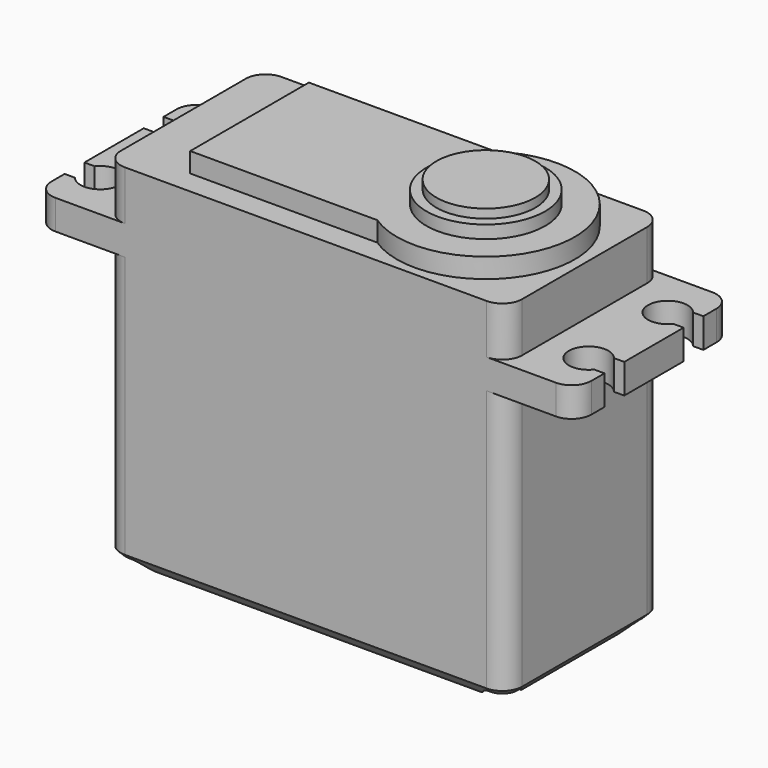
from build123d import *

# Parameters (mm, degrees)
SKETCH007_R      = 6
EXTRUDE007_DEPTH = 1.3
SKETCH008_R      = 5
EXTRUDE008_DEPTH = 0.9
SKETCH004_W      = 5
SKETCH004_H      = 2.5
EXTRUDE004_DEPTH = 3
SKETCH003_R      = 2
EXTRUDE003_DEPTH = 3
SKETCH002_W      = 54.6
SKETCH002_H      = 3
EXTRUDE002_DEPTH = 19.8
SKETCH001_R      = 1.5
EXTRUDE001_DEPTH = 2
SKETCH_W         = 40.6
SKETCH_H         = 19.8
EXTRUDE_DEPTH    = 36
FILLET_R         = 2
CHAMFER_SIZE     = 1.5
FILLET001_R      = 0.5
FILLET002_R      = 2
SKETCH005_R      = 9
EXTRUDE005_DEPTH = 2
SKETCH006_W      = 23.9
SKETCH006_H      = 15
EXTRUDE006_DEPTH = 2


with BuildPart() as extrude007:
    # Sketch007 (on Face81 of Fusion002) → Extrude007 (new body)
    with BuildSketch(Plane.XY.offset(38)):
        Circle(SKETCH007_R)
    extrude(amount=EXTRUDE007_DEPTH)


with BuildPart() as extrude008:
    # Sketch008 (on Face3 of Extrude007) → Extrude008 (new body)
    with BuildSketch(Plane.XY.offset(39.3)):
        Circle(SKETCH008_R)
    extrude(amount=EXTRUDE008_DEPTH)


with BuildPart() as extrude004:
    # Sketch004 (on Face13 of Cut001) → Extrude004 (new body)
    with BuildSketch(Plane.XY.offset(31)):
        with Locations((-37.5, 5)):
            Rectangle(SKETCH004_W, SKETCH004_H)
        with Locations((16.9, 5)):
            Rectangle(SKETCH004_W, SKETCH004_H)
        with Locations((16.9, -5)):
            Rectangle(SKETCH004_W, SKETCH004_H)
        with Locations((-37.5, -5)):
            Rectangle(SKETCH004_W, SKETCH004_H)
    extrude(amount=-EXTRUDE004_DEPTH)


with BuildPart() as extrude003:
    # Sketch003 (on Face11 of Fillet002) → Extrude003 (new body)
    with BuildSketch(Plane.XY.offset(31)):
        with Locations((-35, 5)):
            Circle(SKETCH003_R)
        with Locations((-35, -5)):
            Circle(SKETCH003_R)
        with Locations((14.4, 5)):
            Circle(SKETCH003_R)
        with Locations((14.4, -5)):
            Circle(SKETCH003_R)
    extrude(amount=-EXTRUDE003_DEPTH)


with BuildPart() as extrude002:
    # Sketch002 (on Face6 of Fillet001) → Extrude002 (new body)
    with BuildSketch(Plane.XZ.offset(9.9)):
        with Locations((-10.3, 29.5)):
            Rectangle(SKETCH002_W, SKETCH002_H)
    extrude(amount=-EXTRUDE002_DEPTH)


with BuildPart() as extrude001:
    # Sketch001 (on Face8 of Chamfer) → Extrude001 (new body)
    with BuildSketch(Plane(origin=(0, 0, 0), x_dir=(1, 0, 0), z_dir=(0, 0, -1))):
        with Locations((-28.6, 7.9)):
            Circle(SKETCH001_R)
        with Locations((8, 7.9)):
            Circle(SKETCH001_R)
        with Locations((-28.6, -7.9)):
            Circle(SKETCH001_R)
        with Locations((8, -7.9)):
            Circle(SKETCH001_R)
    extrude(amount=-EXTRUDE001_DEPTH)


with BuildPart() as cut002:
    # Sketch → Extrude (new body)
    with BuildSketch(Plane.XY):
        with Locations((-10.3, 0)):
            Rectangle(SKETCH_W, SKETCH_H)
    extrude(amount=EXTRUDE_DEPTH)

    # Fillet
    fillet_edges = [cut002.edges().sort_by_distance(p)[0] for p in [
        (-30.6, -9.9, 18),
        (10, -9.9, 18),
        (10, 9.9, 18),
        (-30.6, 9.9, 18),
    ]]
    fillet(fillet_edges, radius=FILLET_R)

    # Chamfer
    chamfer_edges = [cut002.edges().sort_by_distance(p)[0] for p in [
        (-10.3, -9.9, 0),
        (-30.014214, -9.314214, 0),
        (9.414214, -9.314214, 0),
        (-30.6, 0, 0),
        (10, 0, 0),
        (-30.014214, 9.314214, 0),
        (9.414214, 9.314214, 0),
        (-10.3, 9.9, 0),
    ]]
    chamfer(chamfer_edges, length=CHAMFER_SIZE)

    # Cut: cut Extrude001
    add(extrude001.part, mode=Mode.SUBTRACT)

    # Fillet001
    fillet001_edges = [cut002.edges().sort_by_distance(p)[0] for p in [
        (-27.733975, -6.675255, 0),
        (-27.733975, 6.675255, 0),
        (6.93934, 6.83934, 0),
        (6.93934, -6.83934, 0),
    ]]
    fillet(fillet001_edges, radius=FILLET001_R)

    # Fusion: union Extrude002
    add(extrude002.part)

    # Fillet002
    fillet002_edges = [cut002.edges().sort_by_distance(p)[0] for p in [
        (-37.6, -9.9, 29.5),
        (-37.6, 9.9, 29.5),
        (17, -9.9, 29.5),
        (17, 9.9, 29.5),
    ]]
    fillet(fillet002_edges, radius=FILLET002_R)

    # Cut001: cut Extrude003
    add(extrude003.part, mode=Mode.SUBTRACT)

    # Cut002: cut Extrude004
    add(extrude004.part, mode=Mode.SUBTRACT)


with BuildPart() as extrude005:
    # Sketch005 (on Face48 of Cut002) → Extrude005 (new body)
    with BuildSketch(Plane.XY.offset(36)):
        Circle(SKETCH005_R)
    extrude(amount=EXTRUDE005_DEPTH)


with BuildPart() as fusion003:
    # Sketch006 (on Face48 of Cut002) → Extrude006 (new body)
    with BuildSketch(Plane.XY.offset(36)):
        with Locations((-11.95, 0)):
            Rectangle(SKETCH006_W, SKETCH006_H)
    extrude(amount=EXTRUDE006_DEPTH)

    # Fusion001: union Extrude005
    add(extrude005.part)

    # Fusion002: union Cut002
    add(cut002.part)

    # Fusion003: union Extrude007, Extrude008
    add(extrude007.part)
    add(extrude008.part)


solid = fusion003.part
